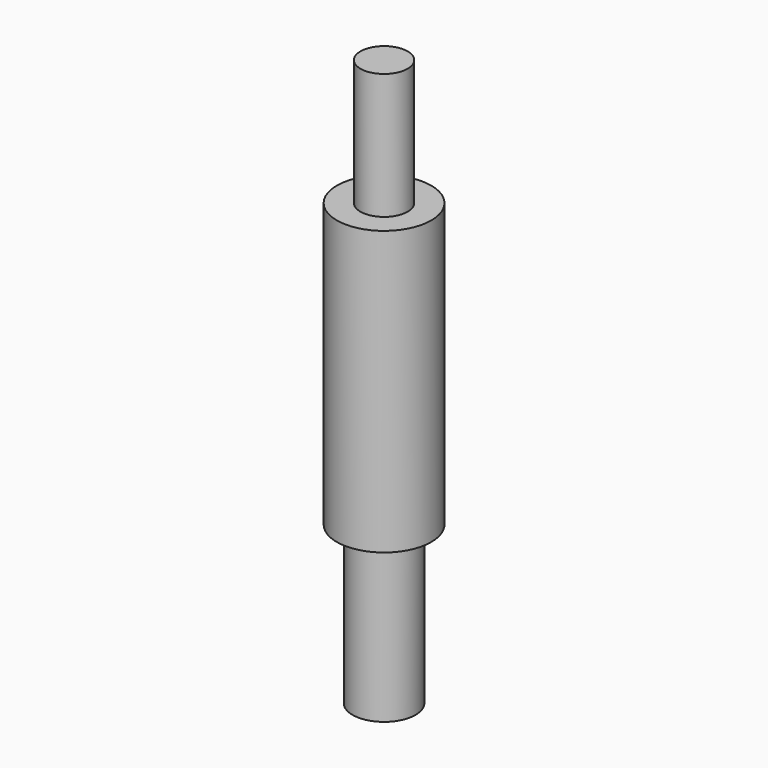
from build123d import *

# Parameters (mm, degrees)
F0_R     = 1.5
F1_DEPTH = 9
F2_R     = 0.75
F3_DEPTH = 4
F4_R     = 1
F5_DEPTH = 5


with BuildPart() as f1:
    # F0 (on Top) → F1 (new body)
    with BuildSketch(Plane.XY):
        Circle(F0_R)
    extrude(amount=F1_DEPTH)

    # F2 (on face) → F3 (join)
    with BuildSketch(Plane.XY.offset(9)):
        Circle(F2_R)
    extrude(amount=F3_DEPTH)

    # F4 (on Top) → F5 (join)
    with BuildSketch(Plane.XY):
        Circle(F4_R)
    extrude(amount=-F5_DEPTH)


solid = f1.part
